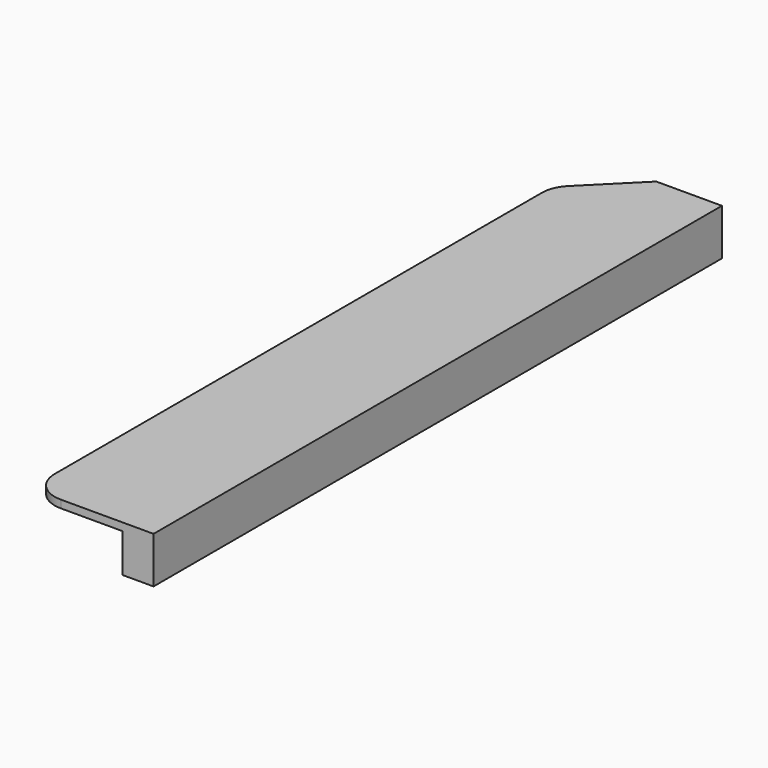
from build123d import *

# Parameters (mm, degrees)
F1_DEPTH = 2336.8
F2_SIZE  = 190.5
F3_R     = 101.6


with BuildPart() as f1:
    # F0 (on Front) → F1 (new body)
    with BuildSketch(Plane.XZ):
        Polygon((0, 0), (-406.4, 0), (-406.4, -25.4), (-101.6, -25.4), (-101.6, -152.4), (0, -152.4), align=None)
    extrude(amount=-F1_DEPTH)

    # F2
    f2_edges = [f1.edges().sort_by_distance(p)[0] for p in [
        (-406.4, 2336.8, -12.7),
    ]]
    chamfer(f2_edges, length=F2_SIZE)

    # F3
    f3_edges = [f1.edges().sort_by_distance(p)[0] for p in [
        (-406.4, 2146.3, -12.7),
        (-406.4, 0, -12.7),
    ]]
    fillet(f3_edges, radius=F3_R)


solid = f1.part
